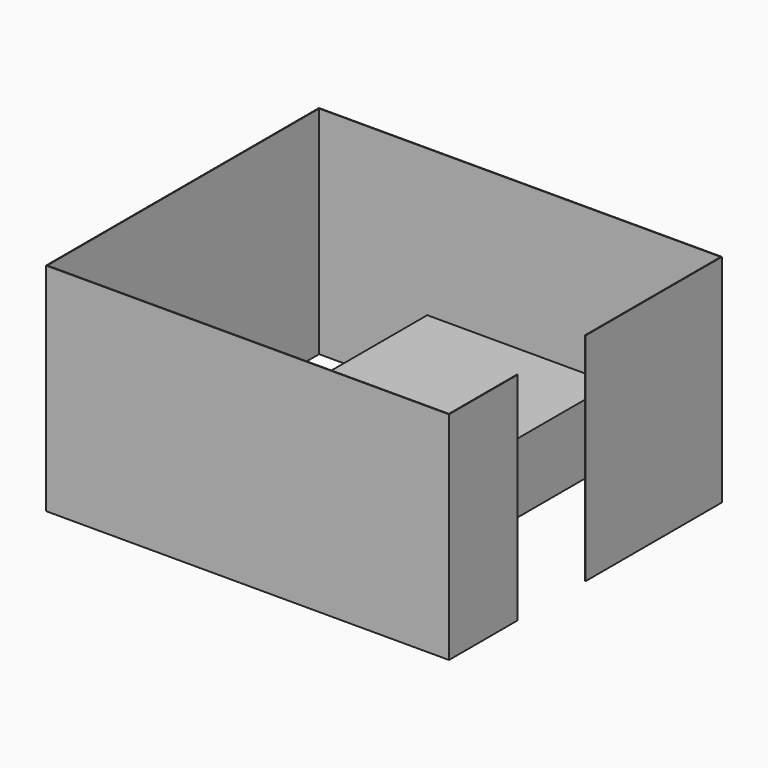
from build123d import *

# Parameters (mm, degrees)
F0_W     = 1828.8
F0_H     = 2133.6
F1_DEPTH = 685.8
F2_W     = 358.775
F2_H     = 600.075
F3_DEPTH = 714.375
F4_W     = 1987.190834
F4_H     = 600.075
F5_DEPTH = 25.4
F6_DEPTH = 2133.6


with BuildPart() as f1:
    # F0 (on Top) → F1 (new body)
    with BuildSketch(Plane.XY):
        Rectangle(F0_W, F0_H)
    extrude(amount=F1_DEPTH)


with BuildPart() as f3:
    # F2 (on Top) → F3 (new body)
    with BuildSketch(Plane.XY):
        with Locations((980.694, -1985.9625)):
            Rectangle(F2_W, F2_H)
        with BuildLine():
            ThreePointArc((1955.8, -2286), (1973.760512, -2278.560512), (1981.2, -2260.6))
            ThreePointArc((1981.2, -2260.6), (1937.839488, -2242.639488), (1955.8, -2286))
        make_face()
        with BuildLine():
            ThreePointArc((1955.8, -1685.925), (1937.839488, -1729.285512), (1981.2, -1711.325))
            ThreePointArc((1981.2, -1711.325), (1973.760512, -1693.364488), (1955.8, -1685.925))
        make_face()
        with BuildLine():
            ThreePointArc((-19.812, -2260.6), (-12.372512, -2278.560512), (5.588, -2286))
            ThreePointArc((5.588, -2286), (23.548512, -2278.560512), (30.988, -2260.6))
            ThreePointArc((30.988, -2260.6), (5.588, -2235.2), (-19.812, -2260.6))
        make_face()
        with BuildLine():
            ThreePointArc((5.588, -1685.925), (-12.372512, -1693.364488), (-19.812, -1711.325))
            ThreePointArc((-19.812, -1711.325), (5.588, -1736.725), (30.988, -1711.325))
            ThreePointArc((30.988, -1711.325), (23.548512, -1693.364488), (5.588, -1685.925))
        make_face()
    extrude(amount=F3_DEPTH)


with BuildPart() as f5:
    # F4 (on face) → F5 (new body)
    with BuildSketch(Plane.XY.offset(714.375)):
        with Locations((980.694, -1985.9625)):
            Rectangle(F4_W, F4_H)
    extrude(amount=F5_DEPTH)


with BuildPart() as f6:
    # F2 (on Top) → F6 (new body)
    with BuildSketch(Plane.XY):
        Polygon((-1981.2, -2286), (-1981.2, 1066.8), (1981.2, 1066.8), (1981.2, -609.6), (1987.55, -609.6), (1987.55, 1073.15), (-1987.55, 1073.15), (-1987.55, -2292.35), (-101.6, -2292.35), (-19.812, -2292.35), (1987.55, -2292.35), (1987.55, -1447.8), (1981.2, -1447.8), (1981.2, -1685.925), (1981.2, -1711.325), (1981.2, -2260.6), (1981.2, -2286), (1955.8, -2286), (1160.0815, -2286), (801.3065, -2286), (5.588, -2286), (-19.812, -2286), (-101.6, -2286), align=None)
    extrude(amount=F6_DEPTH)


solid = Compound([f1.part, f3.part, f5.part, f6.part])
